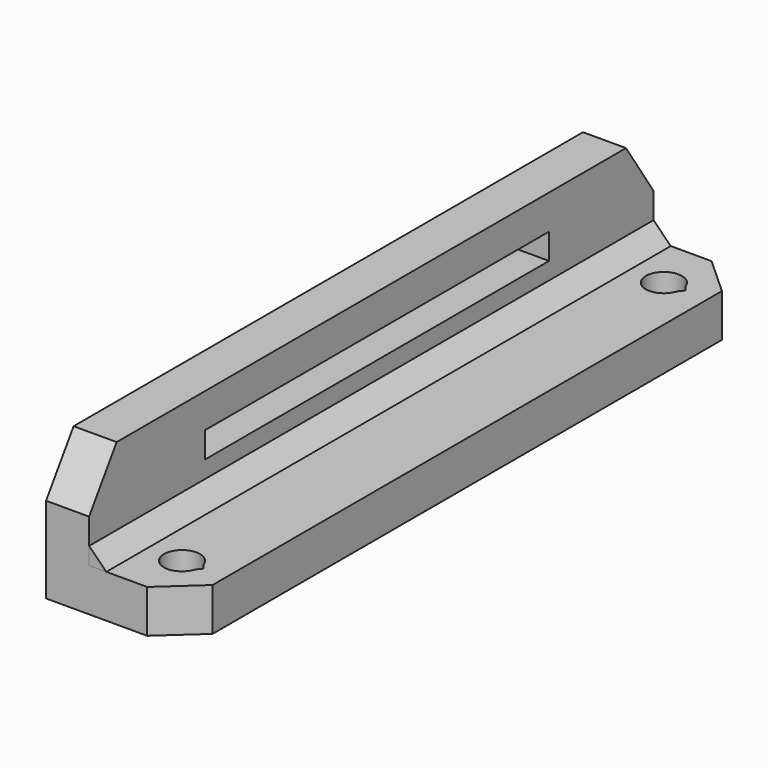
from build123d import *

# Parameters (mm, degrees)
PAD002_DEPTH = 82
SKETCH001_W  = 50
SKETCH001_H  = 3
PAD001_DEPTH = 5
SKETCH_R     = 2.1
PAD_DEPTH    = 5
POCKET_DEPTH = 6


with BuildPart() as pad002:
    # Sketch002 → Pad002 (new body)
    with BuildSketch(Plane(origin=(3, 0, 5), x_dir=(1, 0, 0), z_dir=(0, -1, 0))):
        Polygon((0, 0), (0, 2), (2, 0), align=None)
    extrude(amount=-PAD002_DEPTH)


with BuildPart() as pad001:
    # Sketch001 → Pad001 (new body)
    with BuildSketch(Plane.YZ.offset(-2)):
        Polygon((0, 0), (82, 0), (82, 10), (78, 16), (4, 16), (0, 10), align=None)
        with Locations((41.813425, 10.5)):
            Rectangle(SKETCH001_W, SKETCH001_H, mode=Mode.SUBTRACT)
    extrude(amount=PAD001_DEPTH)


with BuildPart() as pocket:
    # Sketch → Pad (new body)
    with BuildSketch(Plane.XY):
        Polygon((0, 82), (0, 0), (9.750427, 0), (14.14649, 4), (14.14649, 78), (9.750427, 82), align=None)
        with Locations((9, 6)):
            Circle(SKETCH_R, mode=Mode.SUBTRACT)
        with Locations((9, 76)):
            Circle(SKETCH_R, mode=Mode.SUBTRACT)
    extrude(amount=PAD_DEPTH)

    # Fusion: union Pad001
    add(pad001.part)

    # Sketch003 → Pocket (cut)
    with BuildSketch(Plane(origin=(0, 0, 0), x_dir=(1, 0, 0), z_dir=(0, 0, -1))):
        Polygon((10.103576, -4.3), (11.5, -6), (10.103576, -7.7), align=None)
        Polygon((10.103576, -74.3), (10.103576, -77.7), (11.5, -76), align=None)
    extrude(amount=-POCKET_DEPTH, mode=Mode.SUBTRACT)


solid = Compound([pad002.part, pocket.part])
